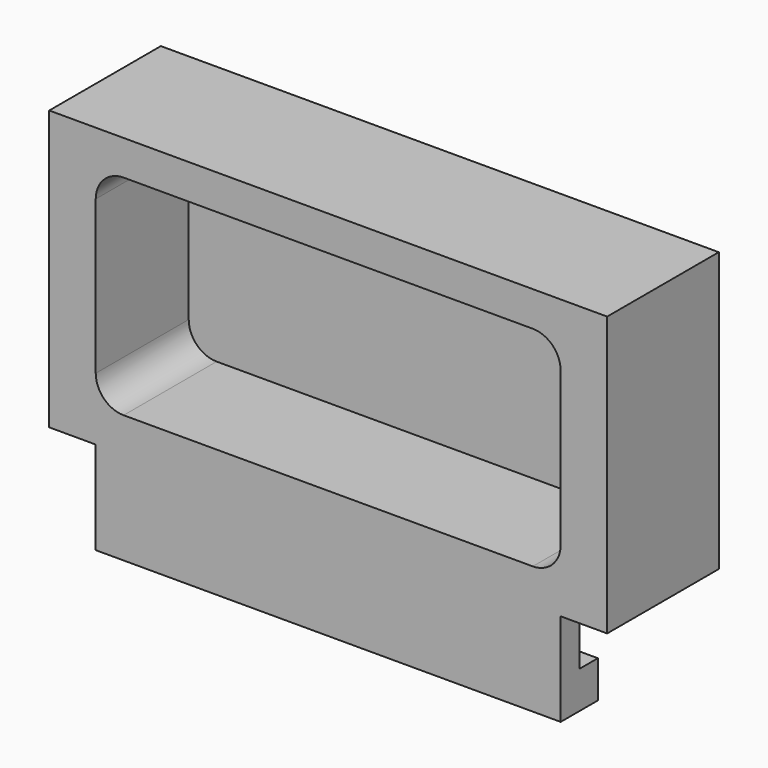
from build123d import *

# Parameters (mm, degrees)
F0_W     = 120
F0_H     = 60
F1_DEPTH = 30
F3_DEPTH = 25
F4_W     = 100
F4_H     = 10
F5_DEPTH = 20
F6_W     = 5
F6_H     = 12
F7_DEPTH = 110.001


with BuildPart() as f1:
    # F0 (on Front) → F1 (new body)
    with BuildSketch(Plane.XZ):
        with Locations((110, 80)):
            Rectangle(F0_W, F0_H)
    extrude(amount=F1_DEPTH)

    # F2 (on face) → F3 (cut)
    with BuildSketch(Plane.XZ.offset(30)):
        with BuildLine():
            Line((66, 57.5), (154, 57.5))
            ThreePointArc((154, 57.5), (158.242641, 59.257359), (160, 63.5))
            Line((160, 63.5), (160, 96.5))
            ThreePointArc((160, 96.5), (158.242641, 100.742641), (154, 102.5))
            Line((154, 102.5), (66, 102.5))
            ThreePointArc((66, 102.5), (61.757359, 100.742641), (60, 96.5))
            Line((60, 96.5), (60, 63.5))
            ThreePointArc((60, 63.5), (61.757359, 59.257359), (66, 57.5))
        make_face()
    extrude(amount=-F3_DEPTH, mode=Mode.SUBTRACT)

    # F4 (on face) → F5 (join)
    with BuildSketch(Plane(origin=(0, 0, 50), x_dir=(1, 0, 0), z_dir=(0, 0, -1))):
        with Locations((110, 25)):
            Rectangle(F4_W, F4_H)
    extrude(amount=F5_DEPTH)

    # F6 (on face) → F7 (cut, through all)
    with BuildSketch(Plane.YZ.offset(160)):
        with Locations((-22.5, 44)):
            Rectangle(F6_W, F6_H)
    extrude(amount=-F7_DEPTH, mode=Mode.SUBTRACT)


solid = f1.part
